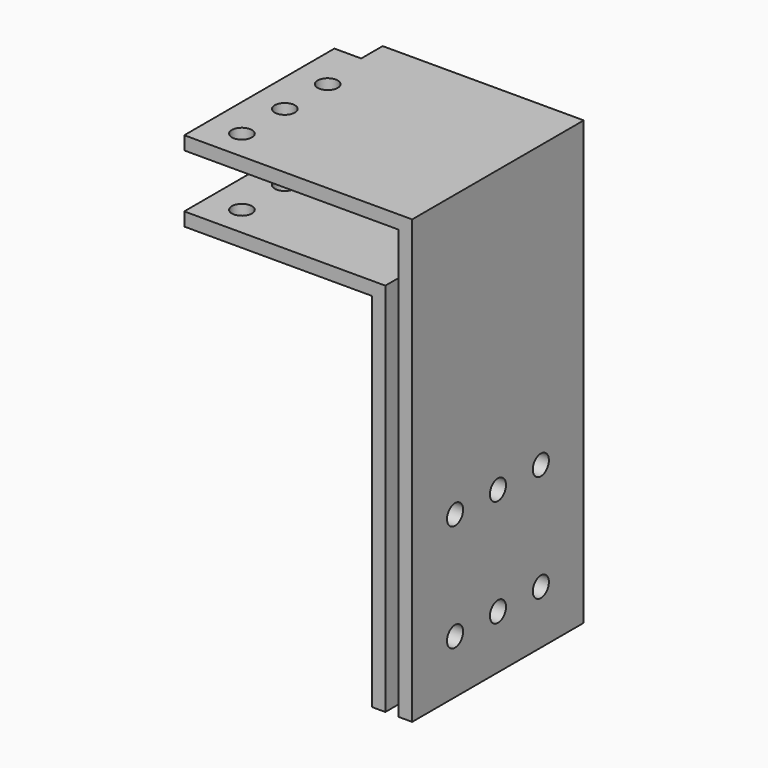
from build123d import *

# Parameters (mm, degrees)
F1_DEPTH = 50.8
F2_R     = 4.7625
F3_DEPTH = 107.951
F4_R     = 4.7625
F4_W     = 12.7
F4_H     = 12.7
F5_DEPTH = 209.551


with BuildPart() as f1:
    # F0 (on Front) → F1 (new body, symmetric)
    with BuildSketch(Plane.XZ):
        Polygon((-43.721065, 109.265013), (-138.971065, 109.265013), (-138.971065, 102.915013), (-50.071065, 102.915013), (-50.071065, -68.534987), (-43.721065, -68.534987), align=None)
        Polygon((-138.971065, 134.665013), (-37.371065, 134.665013), (-37.371065, -68.534987), (-31.021065, -68.534987), (-31.021065, 141.015013), (-138.971065, 141.015013), align=None)
    extrude(amount=F1_DEPTH, both=True)

    # F2 (on face) → F3 (cut, through all)
    with BuildSketch(Plane.YZ.offset(-31.021065)):
        with Locations((-25.4, -43.134987)):
            Circle(F2_R)
        with Locations((-25.4, 7.665013)):
            Circle(F2_R)
        with Locations((0, -43.134987)):
            Circle(F2_R)
        with Locations((0, 7.665013)):
            Circle(F2_R)
        with Locations((25.4, -43.134987)):
            Circle(F2_R)
        with Locations((25.4, 7.665013)):
            Circle(F2_R)
    extrude(amount=-F3_DEPTH, mode=Mode.SUBTRACT)

    # F4 (on face) → F5 (cut, through all)
    with BuildSketch(Plane.XY.offset(141.015013)):
        with Locations((-123.096065, -36.5125)):
            Circle(F4_R)
        with Locations((-123.096065, -11.1125)):
            Circle(F4_R)
        with Locations((-123.096065, 14.2875)):
            Circle(F4_R)
        with Locations((-132.621065, 44.45)):
            Rectangle(F4_W, F4_H)
    extrude(amount=-F5_DEPTH, mode=Mode.SUBTRACT)


solid = f1.part
